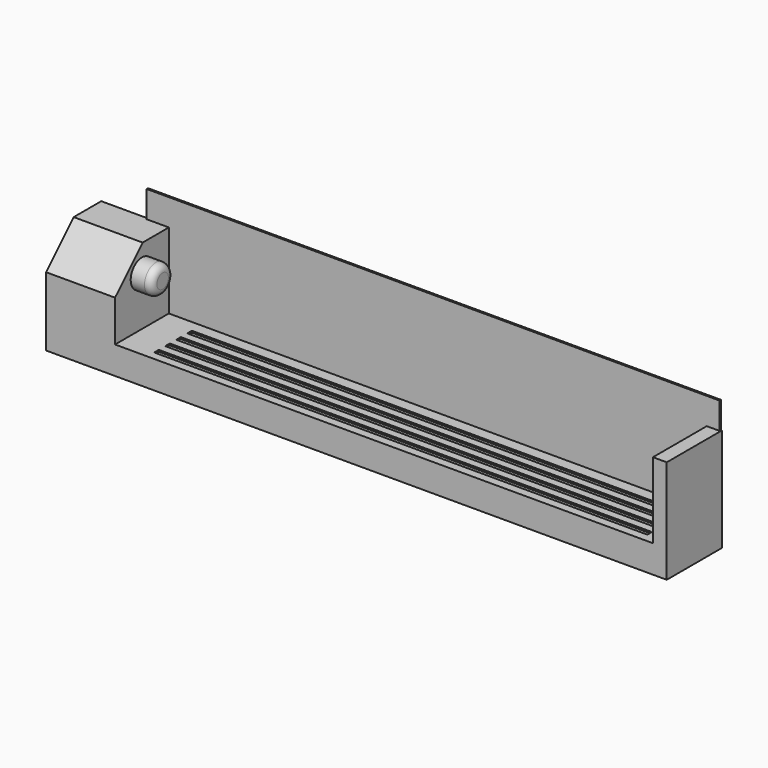
from build123d import *

# Parameters (mm, degrees)
F1_DEPTH = 1000
F2_W     = 8307.780505
F2_H     = 1645.880968
F3_DEPTH = 25
F4_R     = 204.2673
F5_DEPTH = 300
F6_SIZE  = 500
F7_R     = 100
F8_W     = 7151.451826
F8_H     = 83.035737
F9_DEPTH = 25


with BuildPart() as f1:
    # F0 (on Front) → F1 (new body)
    with BuildSketch(Plane.XZ):
        Polygon((-1871.357652, 1500), (-2871.357652, 1500), (-2871.357652, 0), (6128.642348, 0), (6128.642348, 1500), (5928.642348, 1500), (5928.642348, 402.068209), (-1871.357652, 402.068209), align=None)
    extrude(amount=F1_DEPTH)

    # F2 (on face) → F3 (join)
    with BuildSketch(Plane(origin=(0, 0, 0), x_dir=(-1, 0, 0), z_dir=(0, 1, 0))):
        with Locations((-1961.737513, 1063.501224)):
            Rectangle(F2_W, F2_H)
    extrude(amount=-F3_DEPTH)

    # F4 (on face) → F5 (join)
    with BuildSketch(Plane.YZ.offset(-1871.357652)):
        with Locations((-511.823237, 1111.940503)):
            Circle(F4_R)
    extrude(amount=F5_DEPTH)

    # F6
    f6_edges = [f1.edges().sort_by_distance(p)[0] for p in [
        (-2371.357652, -1000, 1500),
    ]]
    chamfer(f6_edges, length=F6_SIZE)

    # F7
    f7_edges = [f1.edges().sort_by_distance(p)[0] for p in [
        (-1571.357652, -716.090537, 1111.940503),
    ]]
    fillet(f7_edges, radius=F7_R)

    # F8 (on face) → F9 (cut)
    with BuildSketch(Plane.XY.offset(402.068209)):
        with Locations((2172.755837, -234.309956)):
            Rectangle(F8_W, F8_H)
        with Locations((2172.755837, -434.309956)):
            Rectangle(F8_W, F8_H)
        with Locations((2172.755837, -634.309956)):
            Rectangle(F8_W, F8_H)
        with Locations((2172.755837, -834.309956)):
            Rectangle(F8_W, F8_H)
    extrude(amount=-F9_DEPTH, mode=Mode.SUBTRACT)


solid = f1.part
